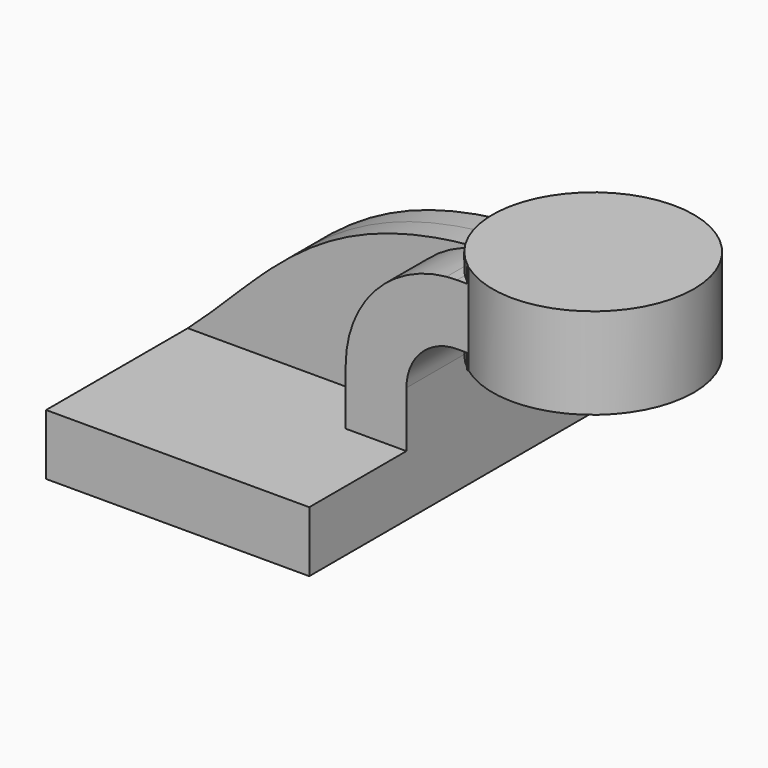
from build123d import *

# Parameters (mm, degrees)
F1_DEPTH = 25.4
F2_DEPTH = 7.9375
F0_W     = 31.585604
F0_H     = 28.575
F4_DEPTH = 63.5


with BuildPart() as f1:
    # F0 (on Front) → F1 (new body, symmetric)
    with BuildSketch(Plane.XZ):
        Polygon((60.325, 66.675), (60.325, 61.9252), (60.325, 42.8752), (60.325, 38.1), (79.539396, 38.1), (79.539396, 66.675), align=None)
        with BuildLine():
            Line((22.225, 9.525), (41.275, 9.525))
            Line((41.275, 9.525), (41.275, 27.0002))
            ThreePointArc((41.275, 27.0002), (45.92468, 38.22552), (57.15, 42.8752))
            Line((57.15, 42.8752), (60.325, 42.8752))
            Line((60.325, 42.8752), (60.325, 61.9252))
            Line((60.325, 61.9252), (57.15, 61.9252))
            add(Edge.make_bspline(
                [(53.857929, 61.769697), (54.939593, 61.830793), (56.036819, 61.882698), (57.15, 61.9252)],
                knots=[109.332626, 109.332626, 109.332626, 109.332626, 111.504536, 111.504536, 111.504536, 111.504536], degree=3))
            ThreePointArc((53.857929, 61.769697), (31.31658, 50.503179), (22.225, 27.0002))
            Line((22.225, 27.0002), (22.225, 9.525))
        make_face()
    extrude(amount=F1_DEPTH, both=True)

    # F0 (on Front) → F2 (join, symmetric)
    with BuildSketch(Plane.XZ):
        with BuildLine():
            add(Edge.make_bspline(
                [(-41.275, 9.525), (-15.607869, 32.326474), (-0.592367, 58.694147), (53.857929, 61.769697)],
                knots=[0, 0, 0, 0, 109.332626, 109.332626, 109.332626, 109.332626], degree=3))
            Line((-41.275, 9.525), (22.225, 9.525))
            Line((22.225, 9.525), (22.225, 27.0002))
            ThreePointArc((22.225, 27.0002), (31.31658, 50.503179), (53.857929, 61.769697))
        make_face()
    extrude(amount=F2_DEPTH, both=True)

    # F0 (on Front) → F3 (revolve)
    with BuildSketch(Plane.XZ):
        with Locations((95.332198, 52.3875)):
            Rectangle(F0_W, F0_H)
    revolve(axis=Axis((79.539396, 0, 52.3875), (0, 0, 1)))

    # F0 (on Front) → F4 (join, symmetric)
    with BuildSketch(Plane.XZ):
        Polygon((-41.275, 9.525), (-41.275, -9.525), (41.275, -9.525), (41.275, 9.525), (22.225, 9.525), align=None)
    extrude(amount=F4_DEPTH, both=True)


solid = f1.part
